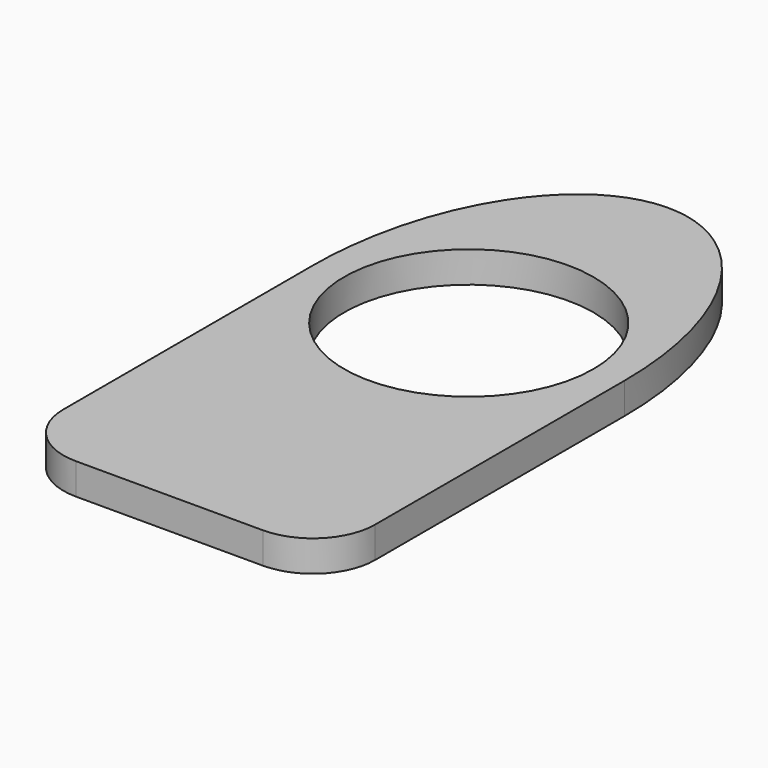
from build123d import *

# Parameters (mm, degrees)
F0_R     = 12.7
F1_DEPTH = 3.175


with BuildPart() as f1:
    # F0 (on Top) → F1 (new body)
    with BuildSketch(Plane.XY):
        with BuildLine():
            Line((15.875, -31.75), (15.875, 0))
            add(Edge.make_bspline(
                [(15.875, 0), (15.875, 25.4), (0, 25.4), (-15.875, 25.4), (-15.875, 0)],
                knots=[1.5707963268, 1.5707963268, 1.5707963268, 3.1415926536, 3.1415926536, 4.7123889804, 4.7123889804, 4.7123889804], degree=2, weights=[1, 0.7071067812, 1, 0.7071067812, 1]))
            Line((-15.875, 0), (-15.875, -31.75))
            ThreePointArc((-15.875, -31.75), (-14.0151280605, -36.2401280605), (-9.525, -38.1))
            Line((-9.525, -38.1), (9.525, -38.1))
            ThreePointArc((9.525, -38.1), (14.0151280605, -36.2401280605), (15.875, -31.75))
        make_face()
        Circle(F0_R, mode=Mode.SUBTRACT)
    extrude(amount=F1_DEPTH)


solid = f1.part
